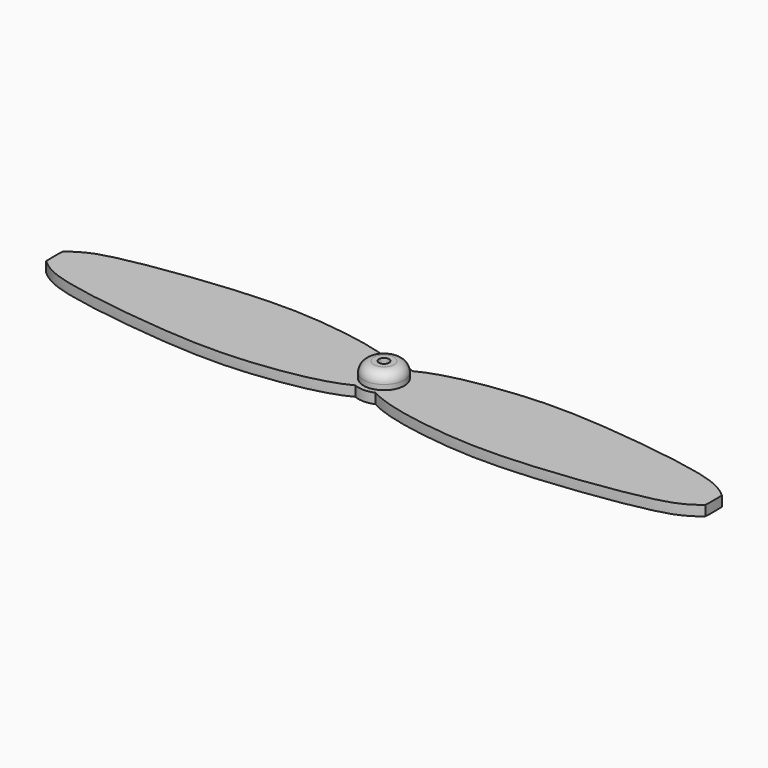
from build123d import *

# Parameters (mm, degrees)
F0_R     = 0.5
F1_DEPTH = 1
F2_R     = 2
F2_R_2   = 0.5
F3_DEPTH = 1.5
F4_R     = 1


with BuildPart() as f1:
    # F0 (on Top) → F1 (new body)
    with BuildSketch(Plane.XY):
        with BuildLine():
            add(Edge.make_bspline(
                [(-0.9797958971, -2.3), (-2.8701558238, -3.3193906957), (-9.0635427866, -4.4634802029), (-16.6306103232, -4.6553743194), (-28.6483211521, -3.0888591027), (-31.4092017669, -1.9584880561), (-32.4846117416, -1)],
                knots=[0, 0, 0, 0, 0.2505517534, 0.5093635228, 0.8152612188, 1, 1, 1, 1], degree=3))
            ThreePointArc((-0.9797958971, -2.3), (0, -2.5), (0.9797958971, -2.3))
            add(Edge.make_bspline(
                [(0.9797958971, -2.3), (2.8701558238, -3.3193906957), (9.0635427866, -4.4634802029), (16.6306103232, -4.6553743194), (28.6483211521, -3.0888591027), (31.4092017669, -1.9584880561), (32.4846117416, -1)],
                knots=[0, 0, 0, 0, 0.2505517534, 0.5093635228, 0.8152612188, 1, 1, 1, 1], degree=3))
            ThreePointArc((32.4846117416, -1), (32.5, 0), (32.4846117416, 1))
            add(Edge.make_bspline(
                [(0.9797958971, 2.3), (2.8701558238, 3.3193906957), (9.0635427866, 4.4634802029), (16.6306103232, 4.6553743194), (28.6483211521, 3.0888591027), (31.4092017669, 1.9584880561), (32.4846117416, 1)],
                knots=[0, 0, 0, 0, 0.2505517534, 0.5093635228, 0.8152612188, 1, 1, 1, 1], degree=3))
            ThreePointArc((0.9797958971, 2.3), (0, 2.5), (-0.9797958971, 2.3))
            add(Edge.make_bspline(
                [(-0.9797958971, 2.3), (-2.8701558238, 3.3193906957), (-9.0635427866, 4.4634802029), (-16.6306103232, 4.6553743194), (-28.6483211521, 3.0888591027), (-31.4092017669, 1.9584880561), (-32.4846117416, 1)],
                knots=[0, 0, 0, 0, 0.2505517534, 0.5093635228, 0.8152612188, 1, 1, 1, 1], degree=3))
            ThreePointArc((-32.4846117416, 1), (-32.5, 0), (-32.4846117416, -1))
        make_face()
        Circle(F0_R, mode=Mode.SUBTRACT)
    extrude(amount=F1_DEPTH)

    # F2 (on face) → F3 (join)
    with BuildSketch(Plane.XY.offset(1)):
        Circle(F2_R)
        Circle(F2_R_2, mode=Mode.SUBTRACT)
    extrude(amount=F3_DEPTH)

    # F4
    f4_edges = [f1.edges().sort_by_distance(p)[0] for p in [
        (-2, 0, 2.5),
    ]]
    fillet(f4_edges, radius=F4_R)


solid = f1.part
